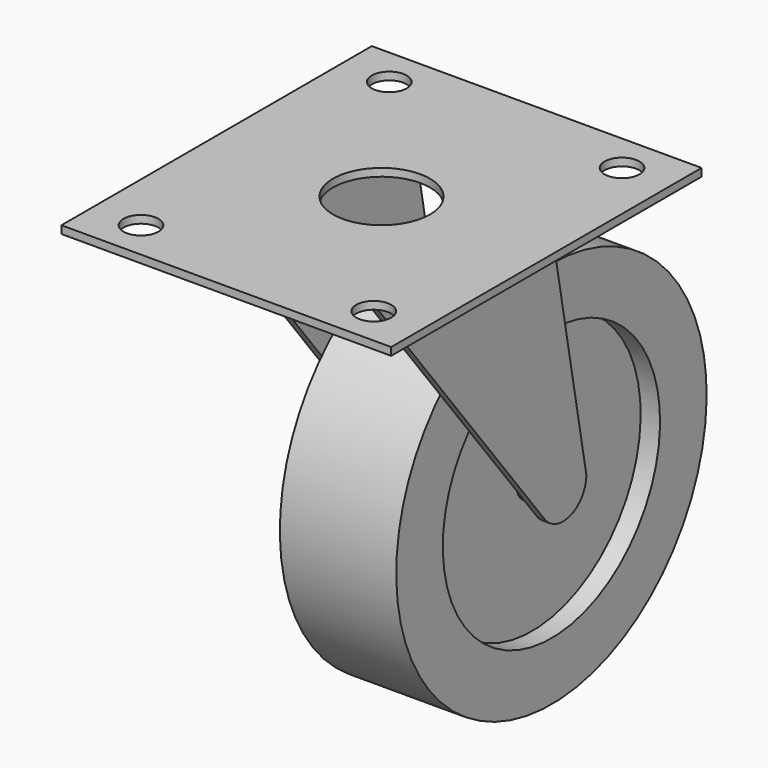
from build123d import *

# Parameters (mm, degrees)
F3_DEPTH = 2
F5_DEPTH = 2
F6_W     = 85
F6_H     = 100
F6_R     = 4.5
F6_R_2   = 12.5
F7_DEPTH = 2


with BuildPart() as f1:
    # F0 (on Front) → F1 (revolve)
    with BuildSketch(Plane.XZ):
        Polygon((16, 5), (10, 5), (10, 35), (15, 35), (15, 50), (-15, 50), (-15, 35), (-10, 35), (-10, 5), (-16, 5), (-16, 0), (16, 0), align=None)
    revolve(axis=Axis((0, 0, 0), (1, 0, 0)))

    # F2 (on face) → F3 (join)
    with BuildSketch(Plane(origin=(-16, 0, 0), x_dir=(0, -1, 0), z_dir=(-1, 0, 0))):
        with BuildLine():
            Line((6, 73), (-7.5, 0))
            ThreePointArc((-7.5, 0), (-2.426055, -7.096778), (5.930469, -4.591246))
            Line((5.930469, -4.591246), (66, 73))
            Line((66, 73), (6, 73))
        make_face()
    extrude(amount=F3_DEPTH)

    # F4 (on face) → F5 (join)
    with BuildSketch(Plane.YZ.offset(16)):
        with BuildLine():
            ThreePointArc((-5.930469, -4.591246), (2.426055, -7.096778), (7.5, 0))
            Line((7.5, 0), (-6, 73))
            Line((-6, 73), (-66, 73))
            Line((-66, 73), (-5.930469, -4.591246))
        make_face()
    extrude(amount=F5_DEPTH)

    # F6 (on face) → F7 (join)
    with BuildSketch(Plane.XY.offset(73)):
        with Locations((0, -36)):
            Rectangle(F6_W, F6_H)
        with Locations((-30, -76)):
            Circle(F6_R, mode=Mode.SUBTRACT)
        with Locations((30, -76)):
            Circle(F6_R, mode=Mode.SUBTRACT)
        with Locations((-30, 4)):
            Circle(F6_R, mode=Mode.SUBTRACT)
        with Locations((0, -36)):
            Circle(F6_R_2, mode=Mode.SUBTRACT)
        with Locations((30, 4)):
            Circle(F6_R, mode=Mode.SUBTRACT)
    extrude(amount=F7_DEPTH)


solid = f1.part
